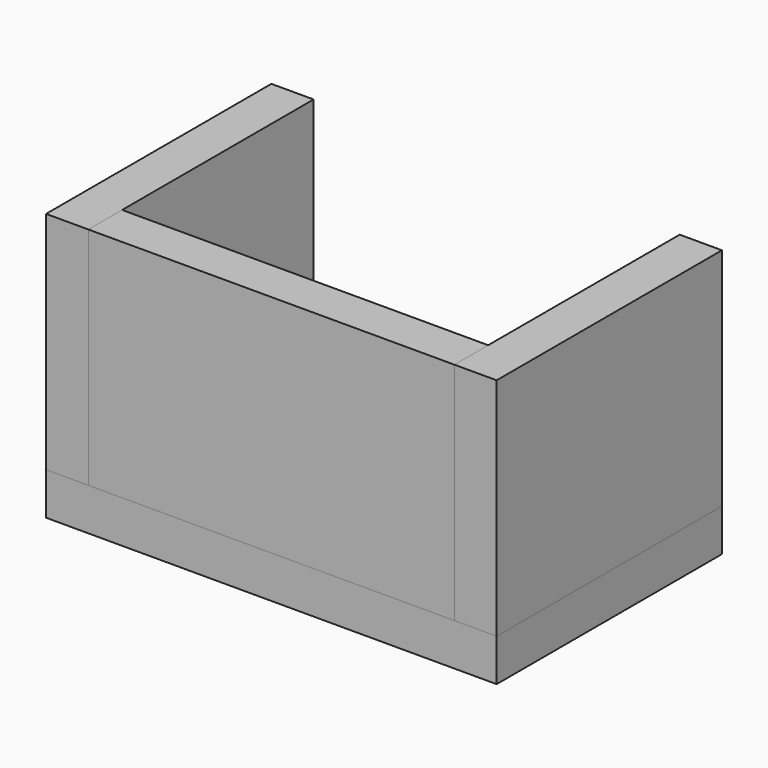
from build123d import *

# Parameters (mm, degrees)
F0_W     = 203.2
F0_H     = 127
F1_DEPTH = 19.05
F2_W     = 19.05
F2_H     = 127
F3_DEPTH = 101.6
F4_W     = 165.1
F4_H     = 19.05
F5_DEPTH = 101.6


with BuildPart() as f1:
    # F0 (on Top) → F1 (new body)
    with BuildSketch(Plane.XY):
        Rectangle(F0_W, F0_H)
    extrude(amount=F1_DEPTH)


with BuildPart() as f3:
    # F2 (on face) → F3 (new body)
    with BuildSketch(Plane.XY.offset(19.05)):
        with Locations((-92.075, 0)):
            Rectangle(F2_W, F2_H)
        with Locations((92.075, 0)):
            Rectangle(F2_W, F2_H)
    extrude(amount=F3_DEPTH)


with BuildPart() as f5:
    # F4 (on face) → F5 (new body, through all)
    with BuildSketch(Plane.XY.offset(19.05)):
        with Locations((0, -53.975)):
            Rectangle(F4_W, F4_H)
    extrude(amount=F5_DEPTH)


solid = Compound([f1.part, f3.part, f5.part])
